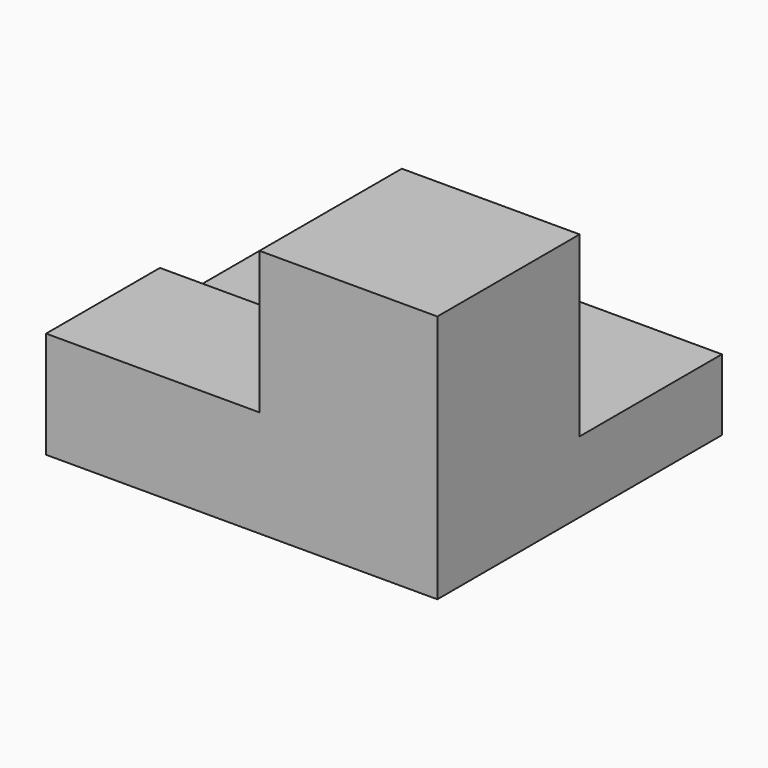
from build123d import *

# Parameters (mm, degrees)
F1_DEPTH = 88.9
F0_W     = 76.2
F0_H     = 50.8
F2_DEPTH = 38.1
F3_DEPTH = 25.4


with BuildPart() as f1:
    # F0 (on Top) → F1 (new body)
    with BuildSketch(Plane.XY):
        Polygon((0, -63.5), (63.5, -63.5), (63.5, 0), (0, 0), (0, -12.7), align=None)
    extrude(amount=F1_DEPTH)

    # F0 (on Top) → F2 (join)
    with BuildSketch(Plane.XY):
        with Locations((-38.1, -38.1)):
            Rectangle(F0_W, F0_H)
    extrude(amount=F2_DEPTH)

    # F0 (on Top) → F3 (join)
    with BuildSketch(Plane.XY):
        Polygon((0, 0), (63.5, 0), (63.5, 63.5), (-76.2, 63.5), (-76.2, -12.7), (0, -12.7), align=None)
    extrude(amount=F3_DEPTH)


solid = f1.part
